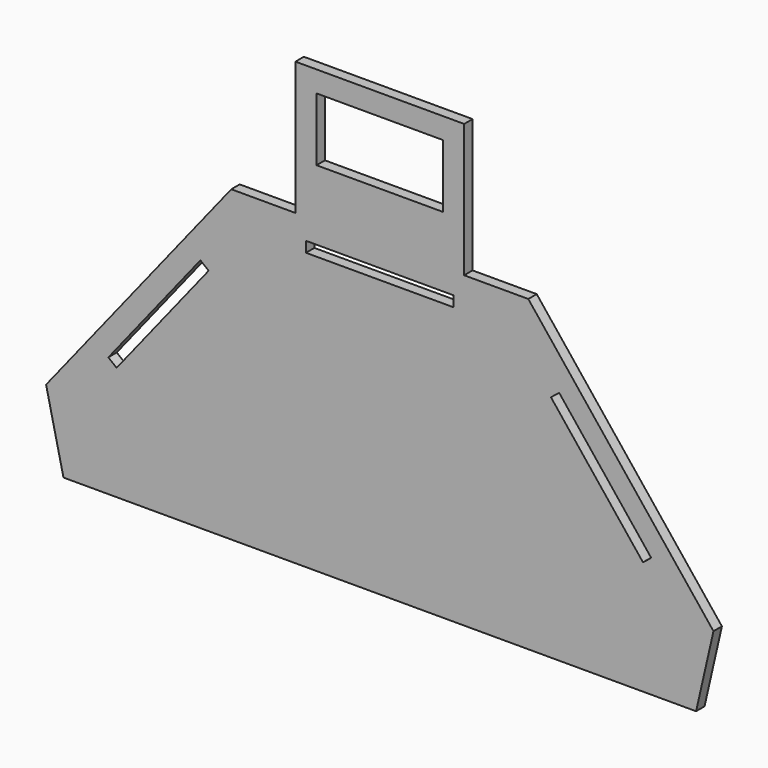
from build123d import *

# Parameters (mm, degrees)
F0_W     = 70
F0_H     = 5
F1_DEPTH = 5


with BuildPart() as f1:
    # F0 (on Front) → F1 (new body)
    with BuildSketch(Plane.XZ):
        Polygon((-40, 146.239187), (-70.425081, 146.239187), (-158.24372, 36.118096), (-150, 0), (150, 0), (158.24372, 36.118096), (70.425081, 146.239187), (40, 146.239187), (40, 209.417821), (1.491508, 209.417821), (-40, 209.417821), align=None)
        Polygon((-81.164699, 108.714), (-124.808985, 53.985796), (-128.718142, 57.103245), (-85.073856, 111.831449), align=None, mode=Mode.SUBTRACT)
        Polygon((128.718142, 57.103245), (124.808985, 53.985796), (81.164699, 108.714), (85.073856, 111.831449), align=None, mode=Mode.SUBTRACT)
        with Locations((0, 133.739187)):
            Rectangle(F0_W, F0_H, mode=Mode.SUBTRACT)
        Polygon((-30, 199.417821), (0, 199.417821), (30, 199.417821), (30, 169.417821), (-30, 169.417821), align=None, mode=Mode.SUBTRACT)
    extrude(amount=F1_DEPTH)


solid = f1.part
